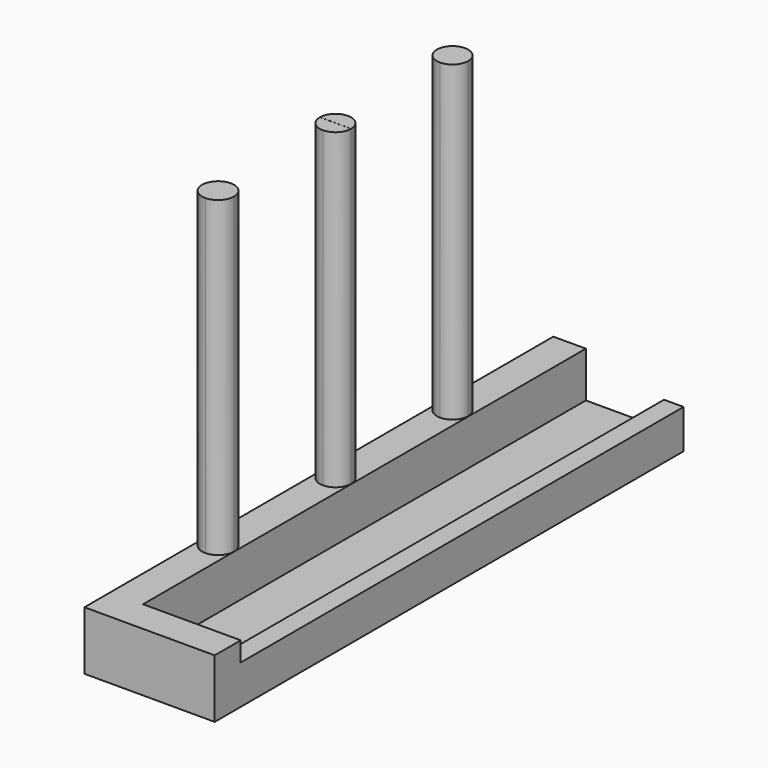
from build123d import *

# Parameters (mm, degrees)
F0_W     = 8.89
F0_H     = 114.3
F1_DEPTH = 6.35
F0_W_2   = 2.54
F2_DEPTH = 25.4
F3_W     = 114.3
F3_H     = 3.81
F4_DEPTH = 5.08
F6_DEPTH = 60.96
F7_W     = 11.43
F7_H     = 25.4
F8_DEPTH = 6.35
F9_ANGLE = 270


with BuildPart() as f1:
    # F0 (on Top) → F1 (new body)
    with BuildSketch(Plane.XY):
        with Locations((-1.27, 0)):
            Rectangle(F0_W, F0_H)
    extrude(amount=F1_DEPTH)

    # F0 (on Top) → F2 (join)
    with BuildSketch(Plane.XY):
        with Locations((4.445, 0)):
            Rectangle(F0_W_2, F0_H)
    extrude(amount=F2_DEPTH)

    # F3 (on face) → F4 (join)
    with BuildSketch(Plane(origin=(3.175, 0, 0), x_dir=(0, -1, 0), z_dir=(-1, 0, 0))):
        with Locations((0, 23.495)):
            Rectangle(F3_W, F3_H)
    extrude(amount=F4_DEPTH)

    # F5 (on face) → F6 (join)
    with BuildSketch(Plane(origin=(-5.715, 0, 0), x_dir=(0, -1, 0), z_dir=(-1, 0, 0))):
        with BuildLine():
            ThreePointArc((-28.5731967743, 6.2570092164), (-31.6139310129, 3.2017607338), (-28.5586825303, 0.1610264952))
            Line((-28.5586825303, 0.1610264952), (-28.5731967743, 6.2570092164))
        make_face()
        with BuildLine():
            Line((-28.5731967743, 6.2570092164), (-28.5586825303, 0.1610264952))
            ThreePointArc((-28.5586825303, 0.1610264952), (-26.4081139286, 1.0563236959), (-25.5179396523, 3.2090178558))
            ThreePointArc((-25.5179396523, 3.2090178558), (-26.4132454924, 5.3668435795), (-28.5731967743, 6.2570092164))
        make_face()
        with BuildLine():
            ThreePointArc((28.5915388763, 6.3205178558), (25.4800388763, 3.2090178558), (28.5915388763, 0.0975178558))
            Line((28.5915388763, 0.0975178558), (28.5915388763, 6.3205178558))
        make_face()
        with BuildLine():
            Line((28.5915388763, 6.3205178558), (28.5915388763, 0.0975178558))
            ThreePointArc((28.5915388763, 0.0975178558), (30.791701626, 1.0088551061), (31.7030388763, 3.2090178558))
            ThreePointArc((31.7030388763, 3.2090178558), (30.791701626, 5.4091806055), (28.5915388763, 6.3205178558))
        make_face()
        with BuildLine():
            ThreePointArc((0, 6.2909908401), (-3.0314611237, 3.2430357116), (0, 0.1950805831))
            Line((0, 0.1950805831), (0, 6.2909908401))
        make_face()
        with BuildLine():
            Line((0.0165388763, 6.2910357116), (0.0165388763, 0.1950357116))
            ThreePointArc((0.0165388763, 0.1950357116), (2.1718003454, 1.0877742425), (3.0645388763, 3.2430357116))
            ThreePointArc((3.0645388763, 3.2430357116), (2.1718003454, 5.3982971806), (0.0165388763, 6.2910357116))
        make_face()
    extrude(amount=F6_DEPTH)

    # F7 (on face) → F8 (join)
    with BuildSketch(Plane.XZ.offset(57.15)):
        with Locations((0, 12.7)):
            Rectangle(F7_W, F7_H)
    extrude(amount=-F8_DEPTH)


with BuildPart() as f1_1:
    # F9: moved
    add(f1.part.rotate(Axis((3.175, 0, 0), (0, -1, 0)), F9_ANGLE))


solid = f1_1.part
